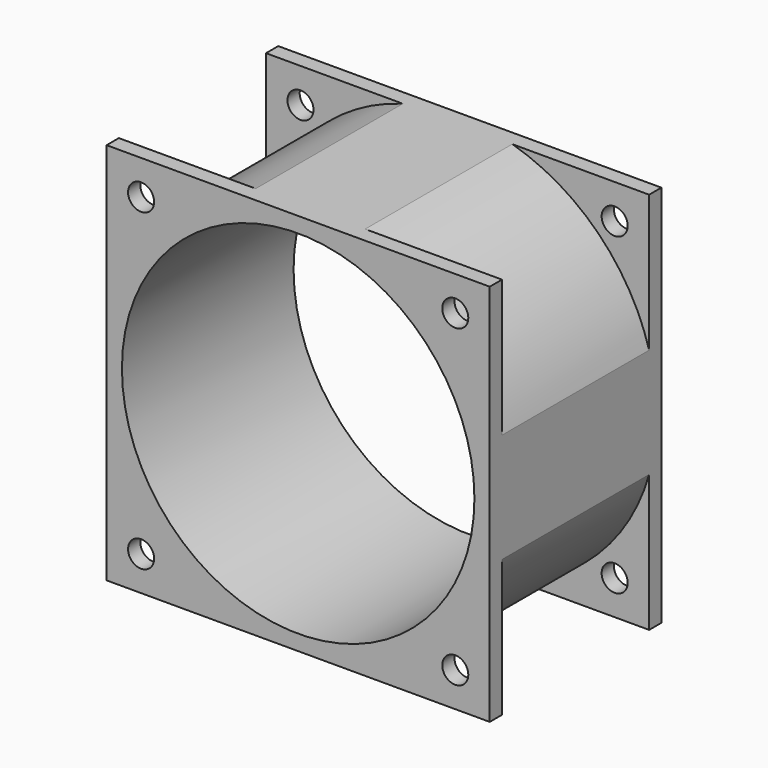
from build123d import *

# Parameters (mm, degrees)
SKETCH_W        = 50
SKETCH_H        = 50
PAD_DEPTH       = 28
SKETCH001_R     = 23
SKETCH001_R_2   = 1.7
POCKET_DEPTH    = 40
SKETCH002_W     = 75.459096
SKETCH002_H     = 67.94658
SKETCH002_R     = 26
POCKET001_DEPTH = 24


with BuildPart() as part:
    # Sketch → Pad (new body)
    with BuildSketch(Plane.XZ):
        with Locations((25, 25)):
            Rectangle(SKETCH_W, SKETCH_H)
    extrude(amount=PAD_DEPTH)

    # Sketch001 (on Face6 of Pad) → Pocket (cut)
    with BuildSketch(Plane.XZ.offset(28)):
        with Locations((25, 25)):
            Circle(SKETCH001_R)
        with Locations((4.5, 45.5)):
            Circle(SKETCH001_R_2)
        with Locations((4.5, 4.5)):
            Circle(SKETCH001_R_2)
        with Locations((45.5, 4.5)):
            Circle(SKETCH001_R_2)
        with Locations((45.5, 45.5)):
            Circle(SKETCH001_R_2)
    extrude(amount=-POCKET_DEPTH, mode=Mode.SUBTRACT)

    # Sketch002 (on DatumPlane) → Pocket001 (cut)
    with BuildSketch(Plane.XZ.offset(26)):
        with Locations((26.273557, 24.507667)):
            Rectangle(SKETCH002_W, SKETCH002_H)
        with Locations((25, 25)):
            Circle(SKETCH002_R, mode=Mode.SUBTRACT)
    extrude(amount=-POCKET001_DEPTH, mode=Mode.SUBTRACT)


solid = part.part
